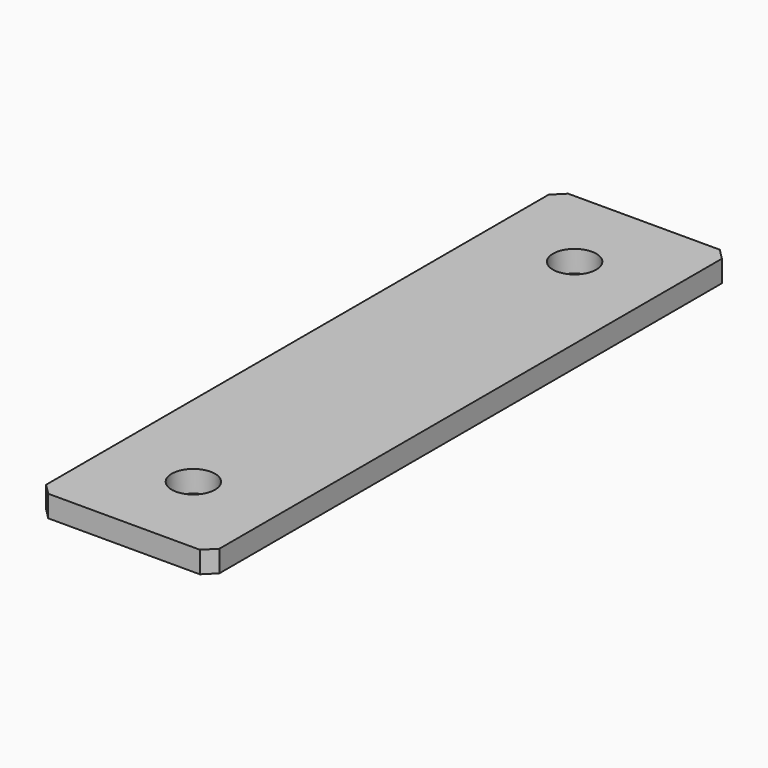
from build123d import *

# Parameters (mm, degrees)
F0_W     = 80
F0_H     = 300
F0_R     = 10
F1_DEPTH = 10
F2_SIZE2 = 5
F2_SIZE  = 5


with BuildPart() as f1:
    # F0 (on Top) → F1 (new body)
    with BuildSketch(Plane.XY):
        Rectangle(F0_W, F0_H)
        with Locations((0, -110)):
            Circle(F0_R, mode=Mode.SUBTRACT)
        with Locations((0, 110)):
            Circle(F0_R, mode=Mode.SUBTRACT)
    extrude(amount=-F1_DEPTH)

    # F2
    f2_edges = [f1.edges().sort_by_distance(p)[0] for p in [
        (40, 150, -5),
        (40, -150, -5),
        (-40, -150, -5),
        (-40, 150, -5),
    ]]
    chamfer(f2_edges, length=F2_SIZE, length2=F2_SIZE2)


solid = f1.part
